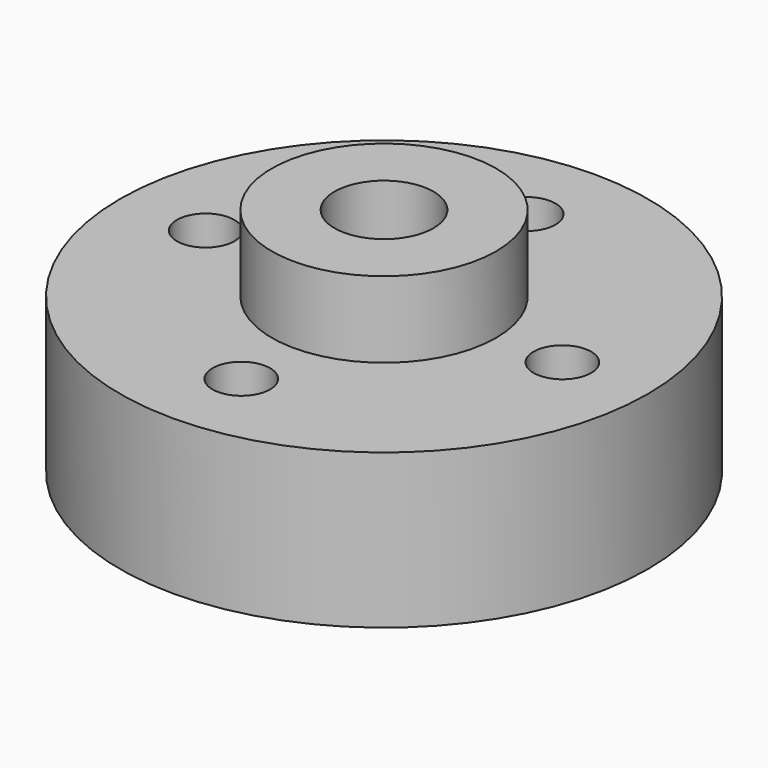
from build123d import *

# Parameters (mm, degrees)
SKETCH_R        = 11.00074
PAD_DEPTH       = 6.4262
SKETCH001_R     = 4.67614
PAD001_DEPTH    = 3.175
SKETCH002_R     = 4.67614
PAD002_DEPTH    = 3.175
SKETCH003_R     = 2.06375
POCKET_DEPTH    = 12.7772
SKETCH004_R     = 1.20015
POCKET001_DEPTH = 9.6022


with BuildPart() as part:
    # Sketch → Pad (new body)
    with BuildSketch(Plane.XY):
        Circle(SKETCH_R)
    extrude(amount=PAD_DEPTH)

    # Sketch001 → Pad001 (new body)
    with BuildSketch(Plane.XY.offset(6.4262)):
        Circle(SKETCH001_R)
    extrude(amount=PAD001_DEPTH)

    # Sketch002 → Pad002 (new body)
    with BuildSketch(Plane(origin=(0, 0, 0), x_dir=(1, 0, 0), z_dir=(0, 0, -1))):
        Circle(SKETCH002_R)
    extrude(amount=PAD002_DEPTH)

    # Sketch003 → Pocket (cut, through all)
    with BuildSketch(Plane(origin=(0, 0, -3.175), x_dir=(1, 0, 0), z_dir=(0, 0, -1))):
        Circle(SKETCH003_R)
    extrude(amount=-POCKET_DEPTH, mode=Mode.SUBTRACT)

    # Sketch004 → Pocket001 (cut, through all)
    with BuildSketch(Plane(origin=(0, 0, 0), x_dir=(1, 0, 0), z_dir=(0, 0, -1))):
        with Locations((7.43331, 0)):
            Circle(SKETCH004_R)
        with Locations((0, -7.43331)):
            Circle(SKETCH004_R)
        with Locations((0, 7.43331)):
            Circle(SKETCH004_R)
        with Locations((-7.43331, 0)):
            Circle(SKETCH004_R)
    extrude(amount=-POCKET001_DEPTH, mode=Mode.SUBTRACT)


solid = part.part
